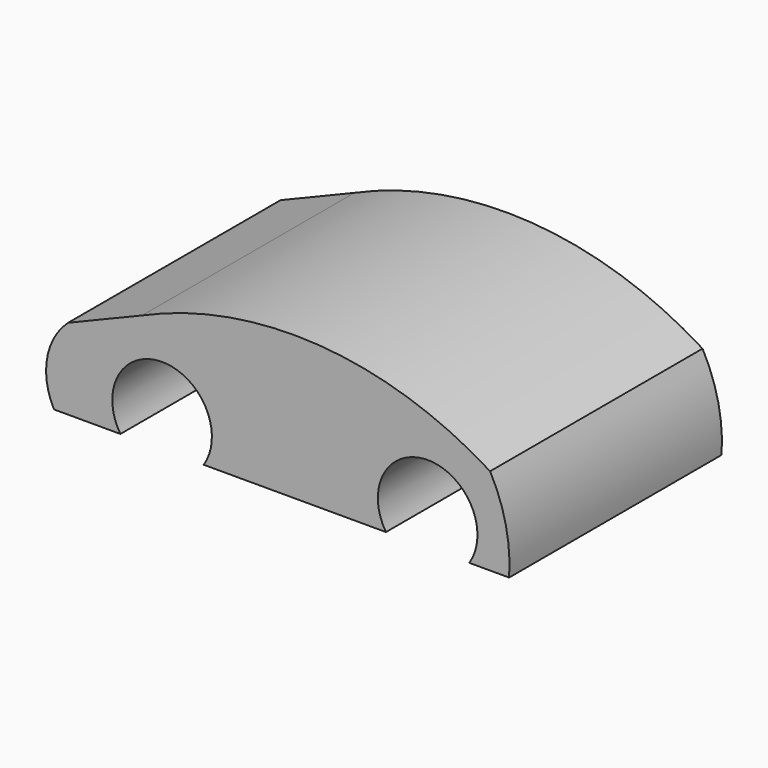
from build123d import *

# Parameters (mm, degrees)
F1_DEPTH = 508
F0_R     = 76.2
F2_DEPTH = 25.4
F3_R     = 76.2
F4_DEPTH = 25.4


with BuildPart() as f1:
    # F0 (on Front) → F1 (new body)
    with BuildSketch(Plane.XZ):
        with BuildLine():
            ThreePointArc((-333.699202, -52.159369), (-254, 95.25), (-174.300798, -52.159369))
            Line((-174.300798, -52.159369), (174.300798, -52.159369))
            ThreePointArc((174.300798, -52.159369), (254, 95.25), (333.699202, -52.159369))
            Line((333.699202, -52.159369), (409.899202, -52.159369))
            ThreePointArc((409.899202, -52.159369), (403.682986, 34.060578), (373.511194, 115.067883))
            ThreePointArc((373.511194, 115.067883), (46.262246, 220.957142), (-292.406975, 160.894107))
            Line((-292.406975, 160.894107), (-433.776977, 102.575199))
            ThreePointArc((-433.776977, 102.575199), (-474.025326, 29.868619), (-460.699202, -52.159369))
            Line((-460.699202, -52.159369), (-333.699202, -52.159369))
        make_face()
    extrude(amount=F1_DEPTH)

    # F0 (on Front) → F2 (join)
    with BuildSketch(Plane.XZ):
        with Locations((-254, 0)):
            Circle(F0_R)
        with Locations((254, 0)):
            Circle(F0_R)
        with BuildLine():
            ThreePointArc((-333.699202, -52.159369), (-254, 95.25), (-174.300798, -52.159369))
            Line((-174.300798, -52.159369), (174.300798, -52.159369))
            ThreePointArc((174.300798, -52.159369), (254, 95.25), (333.699202, -52.159369))
            Line((333.699202, -52.159369), (409.899202, -52.159369))
            ThreePointArc((409.899202, -52.159369), (403.682986, 34.060578), (373.511194, 115.067883))
            ThreePointArc((373.511194, 115.067883), (46.262246, 220.957142), (-292.406975, 160.894107))
            Line((-292.406975, 160.894107), (-433.776977, 102.575199))
            ThreePointArc((-433.776977, 102.575199), (-474.025326, 29.868619), (-460.699202, -52.159369))
            Line((-460.699202, -52.159369), (-333.699202, -52.159369))
        make_face()
    extrude(amount=F2_DEPTH)

    # F3 (on face) → F4 (join)
    with BuildSketch(Plane.XZ.offset(25.4)):
        with Locations((-254, 0)):
            Circle(F3_R)
    extrude(amount=F4_DEPTH)


solid = f1.part
